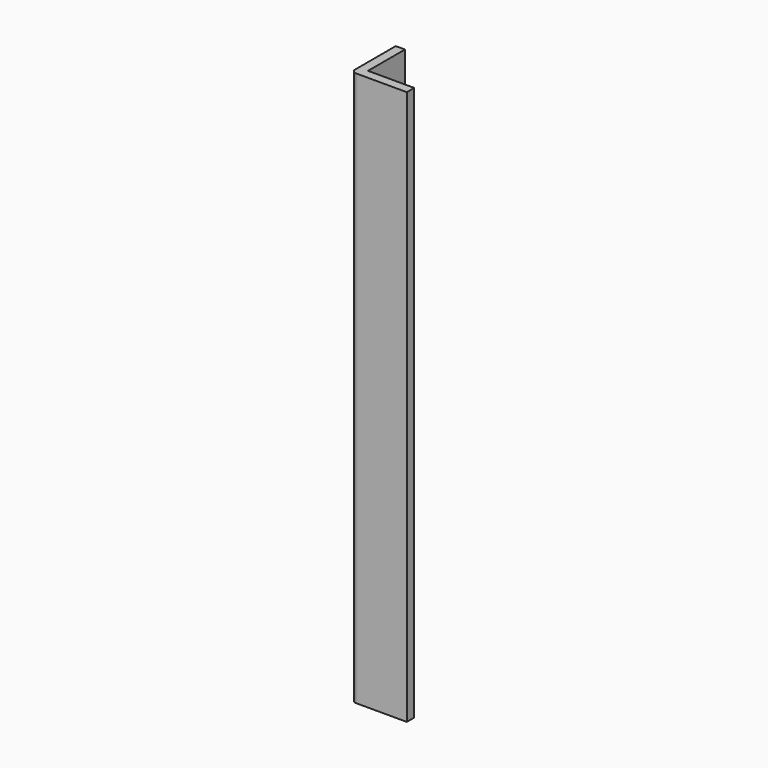
from build123d import *

# Parameters (mm, degrees)
F1_DEPTH = 300


with BuildPart() as f1:
    # F0 (on Top) → F1 (new body)
    with BuildSketch(Plane.XY):
        with BuildLine():
            Line((-10, 15), (-15, 15))
            Line((-15, 15), (-15, -12.5))
            ThreePointArc((-15, -12.5), (-14.267767, -14.267767), (-12.5, -15))
            Line((-12.5, -15), (15, -15))
            Line((15, -15), (15, -10))
            Line((15, -10), (-10, -10))
            Line((-10, -10), (-10, 15))
        make_face()
    extrude(amount=F1_DEPTH)


solid = f1.part
